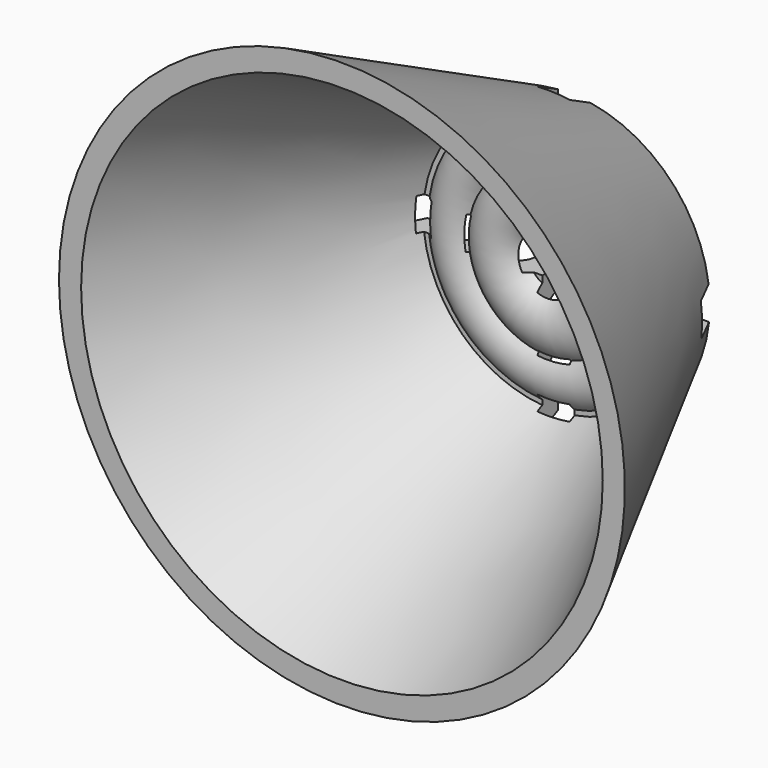
from build123d import *

# Parameters (mm, degrees)
F2_T     = -3.5
F3_W     = 45.4696733505
F3_H     = 5.8580564801
F3_W_2   = 5.7185793994
F3_H_2   = 46.4460169896
F3_W_3   = 48.2592248591
F3_H_3   = 47.2828827333
F4_DEPTH = 4.6


with BuildPart() as f1:
    # F0 (on Top) → F1 (revolve)
    with BuildSketch(Plane.XY):
        with BuildLine():
            Line((-50, 0), (0, 0))
            Line((0, 0), (0, 50))
            Line((0, 50), (-4.7620003728, 50))
            Line((-4.7620003728, 50), (-6.5406044217, 50))
            ThreePointArc((-6.5406044217, 50), (-9.5335509009, 47.2056000307), (-12.5264973801, 50))
            Line((-12.5264973801, 50), (-15.7124061765, 50))
            ThreePointArc((-15.7124061765, 50), (-17.7124061765, 48), (-19.7124061765, 50))
            Line((-19.7124061765, 50), (-25, 50))
            Line((-25, 50), (-50, 0))
        make_face()
    revolve(axis=Axis((0, 25, 0), (0, 1, 0)))

    # F2
    f2_openings = [f1.faces().sort_by_distance(p)[0] for p in [
        (0, 0, 0),
    ]]
    offset(amount=F2_T, openings=f2_openings)

    # F3 (on face) → F4 (cut)
    with BuildSketch(Plane(origin=(0, 50, 0), x_dir=(-1, 0, 0), z_dir=(0, 1, 0))):
        with Locations((-26.6530206427, 0.3392443759)):
            Rectangle(F3_W, F3_H)
        with Locations((-1.0588942678, 26.4912811108)):
            Rectangle(F3_W_2, F3_H_2)
        with Locations((-1.0588942678, 0.3392443759)):
            Rectangle(F3_W_2, F3_H)
        with Locations((25.9300078615, 0.3392443759)):
            Rectangle(F3_W_3, F3_H)
        with Locations((-1.0588942678, -26.2312252307)):
            Rectangle(F3_W_2, F3_H_3)
    extrude(amount=-F4_DEPTH, mode=Mode.SUBTRACT)


solid = f1.part
